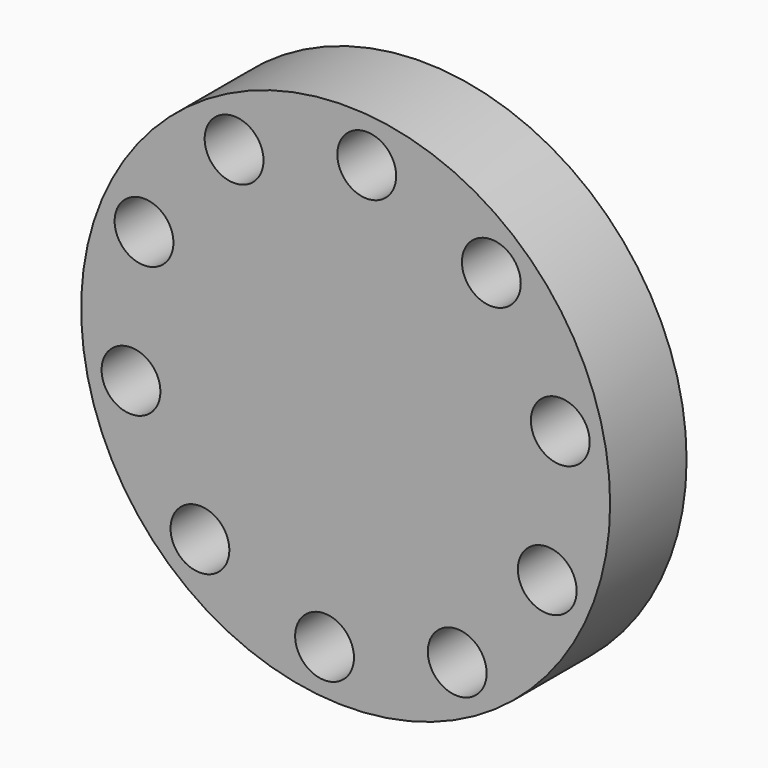
from build123d import *

# Parameters (mm, degrees)
F0_R     = 70.300807
F0_R_2   = 7.818528
F1_DEPTH = 25.4


with BuildPart() as f1:
    # F0 (on Front) → F1 (new body)
    with BuildSketch(Plane.XZ):
        Circle(F0_R)
        with Locations((-38.726715, -43.764048)):
            Circle(F0_R_2, mode=Mode.SUBTRACT)
        with Locations((-5.606709, -58.16885)):
            Circle(F0_R_2, mode=Mode.SUBTRACT)
        with Locations((-57.054432, -12.642867)):
            Circle(F0_R_2, mode=Mode.SUBTRACT)
        with Locations((29.65487, -50.355129)):
            Circle(F0_R_2, mode=Mode.SUBTRACT)
        with Locations((53.589296, -23.30746)):
            Circle(F0_R_2, mode=Mode.SUBTRACT)
        with Locations((-53.589296, 23.30746)):
            Circle(F0_R_2, mode=Mode.SUBTRACT)
        with Locations((-29.65487, 50.355129)):
            Circle(F0_R_2, mode=Mode.SUBTRACT)
        with Locations((57.054432, 12.642867)):
            Circle(F0_R_2, mode=Mode.SUBTRACT)
        with Locations((5.606709, 58.16885)):
            Circle(F0_R_2, mode=Mode.SUBTRACT)
        with Locations((38.726715, 43.764048)):
            Circle(F0_R_2, mode=Mode.SUBTRACT)
    extrude(amount=F1_DEPTH)


solid = f1.part
